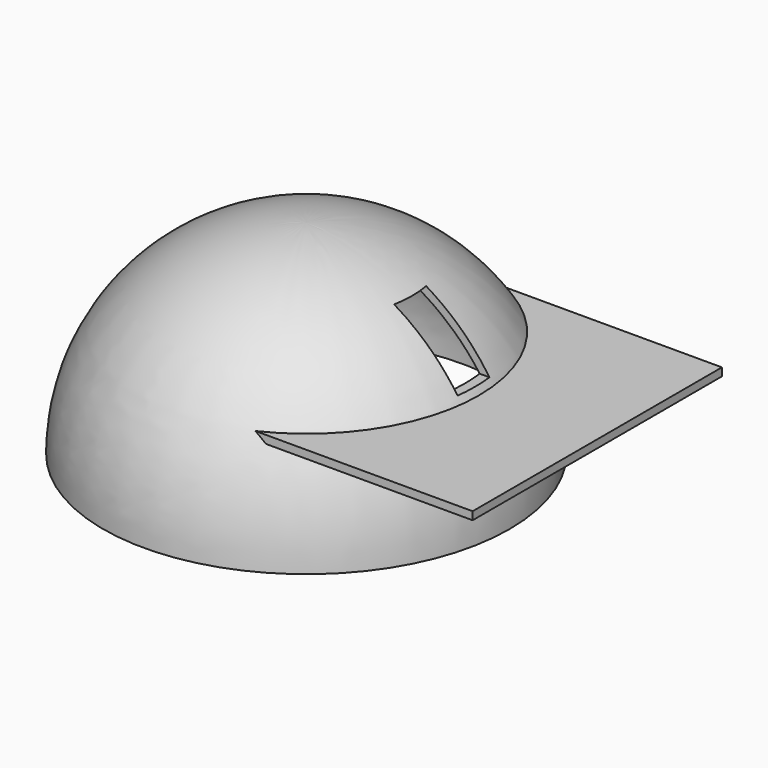
from build123d import *

# Parameters (mm, degrees)
F7_DEPTH  = 2
F10_DEPTH = 64.1


with BuildPart() as f1:
    # F0 (on Front) → F1 (revolve)
    with BuildSketch(Plane.XZ):
        with BuildLine():
            Line((0, 0), (51, 0))
            ThreePointArc((51, 0), (36.062446, 36.062446), (0, 51))
            Line((0, 51), (0, 0))
        make_face()
    revolve(axis=Axis((0, 0, 25.5), (0, 0, -1)))

    # F2 (on Front) → F3 (revolve, cut)
    with BuildSketch(Plane.XZ):
        with BuildLine():
            Line((0, 0), (49, 0))
            ThreePointArc((49, 0), (34.648232, 34.648232), (0, 49))
            Line((0, 49), (0, 0))
        make_face()
    revolve(axis=Axis((0, 0, 24.5), (0, 0, -1)), mode=Mode.SUBTRACT)

    # F6 (on offset) → F7 (join)
    with BuildSketch(Plane.XY.offset(25)):
        with BuildLine():
            ThreePointArc((43, 0), (36.184645, -23.23083), (17.899002, -39.097643))
            Line((17.899002, -39.097643), (73, -39.097643))
            Line((73, -39.097643), (73, 0))
            Line((73, 0), (43, 0))
        make_face()
        with BuildLine():
            ThreePointArc((17.899002, 39.097643), (36.184645, 23.23083), (43, 0))
            Line((43, 0), (73, 0))
            Line((73, 0), (73, 39.097645))
            Line((73, 39.097645), (17.899002, 39.097643))
        make_face()
    extrude(amount=F7_DEPTH)

    # F9 (on Right) → F10 (cut)
    with BuildSketch(Plane.YZ):
        Polygon((5, 36.062446), (0, 36.062446), (-5, 36.062446), (-5, 28.562446), (5, 28.562446), align=None)
        Polygon((-5, 36.062446), (0, 36.062446), (5, 36.062446), (5, 43.562446), (0, 43.562446), (-5, 43.562446), align=None)
    extrude(amount=F10_DEPTH, mode=Mode.SUBTRACT)


solid = f1.part
